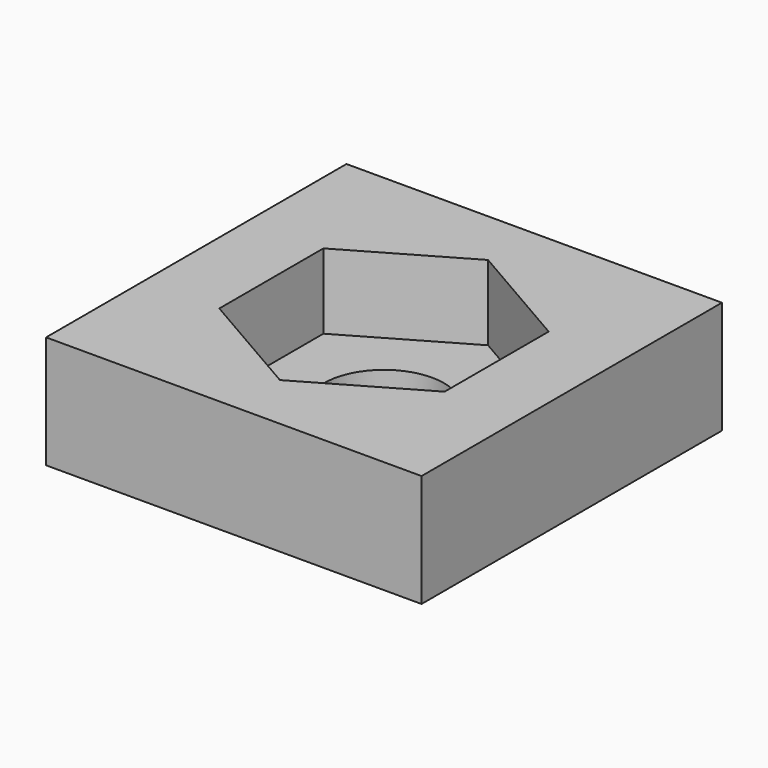
from build123d import *

# Parameters (mm, degrees)
F0_W     = 10
F0_H     = 10
F1_DEPTH = 3
F0_R     = 1.6
F2_DEPTH = 1


with BuildPart() as f1:
    # F0 (on Top) → F1 (new body)
    with BuildSketch(Plane.XY):
        Rectangle(F0_W, F0_H)
        Polygon((0, 3.464102), (3, 1.732051), (3, -1.732051), (0, -3.464102), (-3, -1.732051), (-3, 1.732051), align=None, mode=Mode.SUBTRACT)
    extrude(amount=F1_DEPTH)

    # F0 (on Top) → F2 (join)
    with BuildSketch(Plane.XY):
        Polygon((3, -1.732051), (3, 1.732051), (0, 3.464102), (-3, 1.732051), (-3, -1.732051), (0, -3.464102), align=None)
        Circle(F0_R, mode=Mode.SUBTRACT)
    extrude(amount=F2_DEPTH)


solid = f1.part
